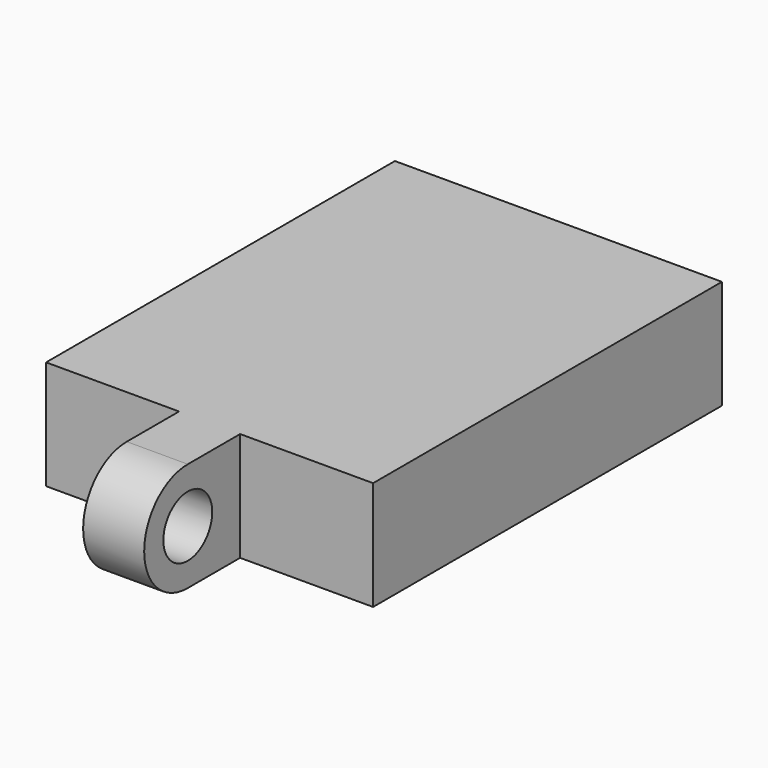
from build123d import *

# Parameters (mm, degrees)
F0_W     = 15
F0_H     = 20
F1_DEPTH = 5
F2_W     = 2.8
F2_H     = 5
F3_DEPTH = 3
F4_W     = 2.8
F4_H     = 2.5
F6_R     = 1.4
F7_DEPTH = 5


with BuildPart() as f1:
    # F0 (on Top) → F1 (new body)
    with BuildSketch(Plane.XY):
        Rectangle(F0_W, F0_H)
    extrude(amount=F1_DEPTH)

    # F2 (on face) → F3 (join)
    with BuildSketch(Plane.XZ.offset(10)):
        with Locations((0, 2.5)):
            Rectangle(F2_W, F2_H)
    extrude(amount=F3_DEPTH)

    # F4 (on face) → F5 (revolve)
    with BuildSketch(Plane.XZ.offset(13)):
        with Locations((0, 1.25)):
            Rectangle(F4_W, F4_H)
    revolve(axis=Axis((0, -13, 2.5), (1, 0, 0)))

    # F6 (on face) → F7 (cut)
    with BuildSketch(Plane(origin=(-1.4, 0, 0), x_dir=(0, -1, 0), z_dir=(-1, 0, 0))):
        with Locations((13, 2.5)):
            Circle(F6_R)
    extrude(amount=-F7_DEPTH, mode=Mode.SUBTRACT)


solid = f1.part
